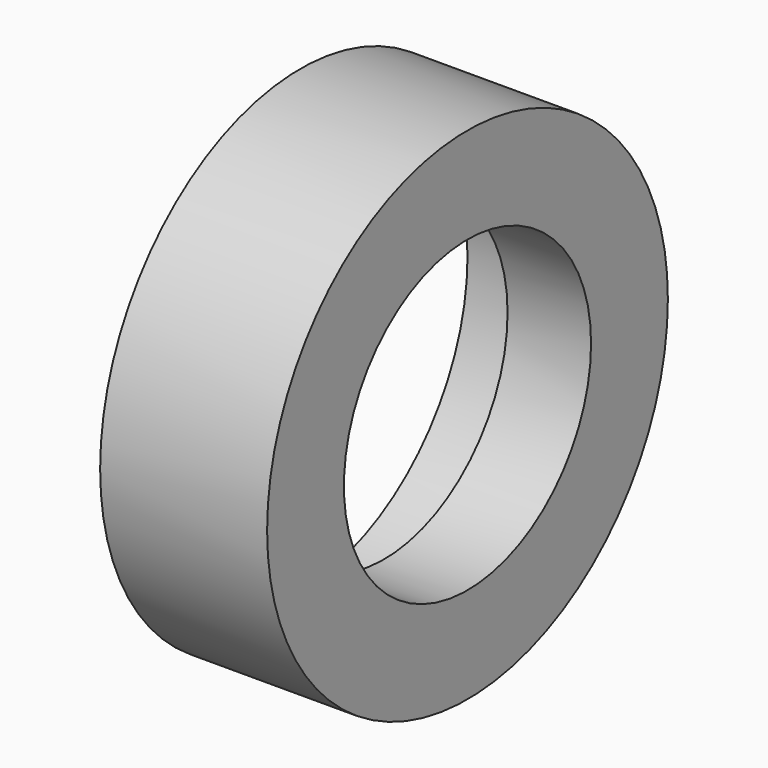
from build123d import *

# Parameters (mm, degrees)
F1_R     = 15
F2_DEPTH = 10
F0_R     = 9.25
F3_DEPTH = 5
F4_R     = 12.5
F5_DEPTH = 25


with BuildPart() as f2:
    # F1 (on Right) → F2 (new body)
    with BuildSketch(Plane.YZ):
        Circle(F1_R)
    extrude(amount=-F2_DEPTH)

    # F0 (on Right) → F3 (cut)
    with BuildSketch(Plane.YZ):
        Circle(F0_R)
    extrude(amount=-F3_DEPTH, mode=Mode.SUBTRACT)

    # F4 (on face) → F5 (cut)
    with BuildSketch(Plane.YZ.offset(-5)):
        Circle(F4_R)
    extrude(amount=-F5_DEPTH, mode=Mode.SUBTRACT)


solid = f2.part
